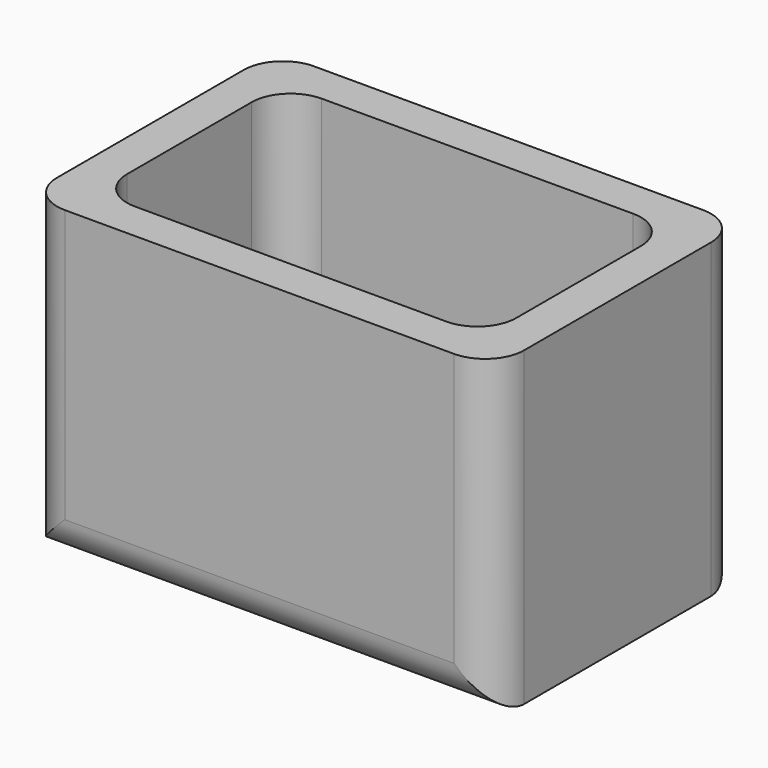
from build123d import *

# Parameters (mm, degrees)
F0_W     = 60
F0_H     = 40
F1_DEPTH = 40
F2_T     = -5
F3_R     = 5


with BuildPart() as f1:
    # F0 (on Top) → F1 (new body)
    with BuildSketch(Plane.XY):
        Rectangle(F0_W, F0_H)
    extrude(amount=F1_DEPTH)

    # F2
    f2_openings = [f1.faces().sort_by_distance(p)[0] for p in [
        (0, 0, 40),
    ]]
    offset(amount=F2_T, openings=f2_openings)

    # F3
    f3_edges = [f1.edges().sort_by_distance(p)[0] for p in [
        (-30, 20, 20),
        (30, 20, 20),
        (-30, -20, 20),
        (30, -20, 20),
        (-25, -15, 22.5),
        (-25, 15, 22.5),
        (25, -15, 22.5),
        (25, 15, 22.5),
        (0, 20, 0),
        (0, -20, 0),
    ]]
    fillet(f3_edges, radius=F3_R)


solid = f1.part
